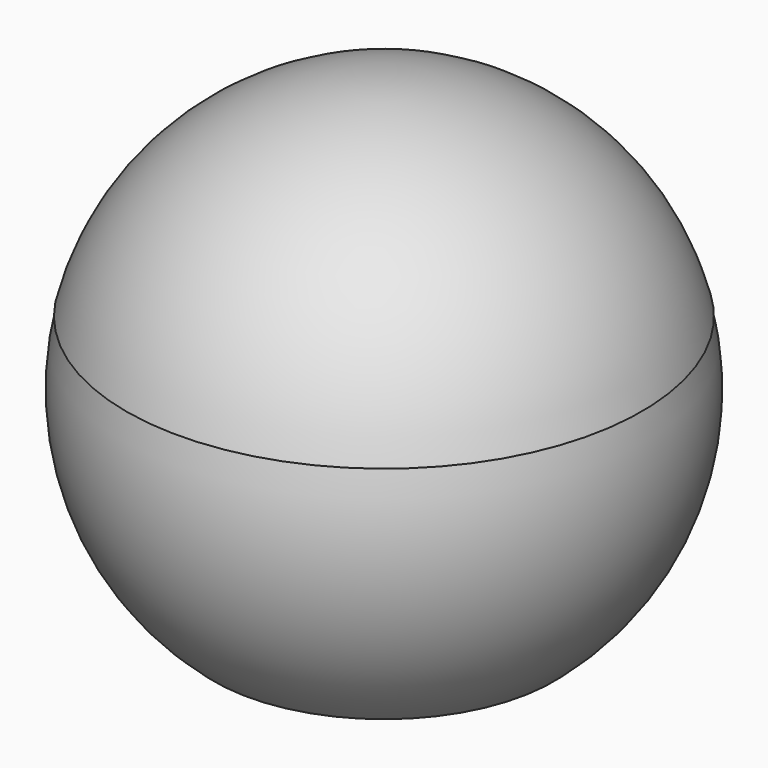
from build123d import *

# Parameters (mm, degrees)
F4_W          = 68.7478817999
F4_H          = 17.0400701463
F5_DEPTH      = 52.53746
F5_DEPTH_BACK = 51.57175


with BuildPart() as f1:
    # F0 (on Front) → F1 (revolve)
    with BuildSketch(Plane.XZ):
        with BuildLine():
            Line((0, 11.9486989786), (0, 49.6914120428))
            ThreePointArc((0, 49.6914120428), (-30.6226117966, 39.1342826377), (-48.2334429989, 11.9486989786))
            Line((-48.2334429989, 11.9486989786), (0, 11.9486989786))
        make_face()
    revolve(axis=Axis((0, 0, 30.8200555107), (0, 0, -1)))


with BuildPart() as f3:
    # F2 (on Front) → F3 (revolve)
    with BuildSketch(Plane.XZ):
        with BuildLine():
            ThreePointArc((-48.0067932728, 11.8497069925), (-38.9294723854, -30.4887509738), (0, -49.4476263955))
            Line((0, -49.4476263955), (0, 11.8497069925))
            Line((0, 11.8497069925), (-48.0067932728, 11.8497069925))
        make_face()
    revolve(axis=Axis((0, 0, -18.7989597015), (0, 0, -1)))

    # F4 (on Front) → F5 (cut, two sides)
    with BuildSketch(Plane.XZ) as f5_sk:
        with Locations((0.4896577448, -46.4195106179)):
            Rectangle(F4_W, F4_H)
    extrude(amount=-F5_DEPTH, mode=Mode.SUBTRACT)
    extrude(f5_sk.sketch, amount=F5_DEPTH_BACK, mode=Mode.SUBTRACT)


solid = Compound([f1.part, f3.part])
